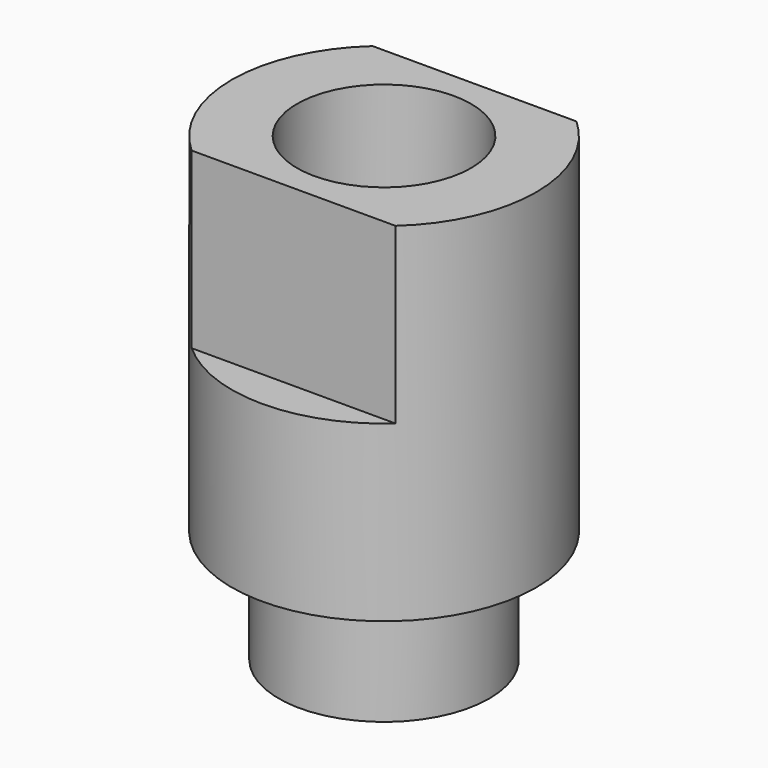
from build123d import *

# Parameters (mm, degrees)
F0_R     = 8.75
F0_R_2   = 6.05
F0_R_3   = 5
F1_DEPTH = 20
F0_R_4   = 3.75
F2_DEPTH = 10
F0_R_5   = 2.65
F3_DEPTH = 6.2
F5_DEPTH = 10
F6_DEPTH = 6.5


with BuildPart() as f1:
    # F0 (on Top) → F1 (new body)
    with BuildSketch(Plane.XY):
        Circle(F0_R)
        Circle(F0_R_2, mode=Mode.SUBTRACT)
        Circle(F0_R_2)
        Circle(F0_R_3, mode=Mode.SUBTRACT)
    extrude(amount=F1_DEPTH)

    # F4 (on face) → F5 (cut)
    with BuildSketch(Plane.XY.offset(20)):
        with BuildLine():
            ThreePointArc((-5.8576872569, -6.5), (0, -8.75), (5.8576872569, -6.5))
            Line((5.8576872569, -6.5), (-5.8576872569, -6.5))
        make_face()
        with BuildLine():
            Line((-5.8576872569, 6.5), (5.8576872569, 6.5))
            ThreePointArc((5.8576872569, 6.5), (0, 8.75), (-5.8576872569, 6.5))
        make_face()
    extrude(amount=-F5_DEPTH, mode=Mode.SUBTRACT)



with BuildPart() as f2:
    # F0 (on Top) → F2 (new body)
    with BuildSketch(Plane.XY):
        Circle(F0_R_3)
        Circle(F0_R_4, mode=Mode.SUBTRACT)
    extrude(amount=F2_DEPTH)

    # F0 (on Top) → F3 (join)
    with BuildSketch(Plane.XY):
        Circle(F0_R_4)
        Circle(F0_R_5, mode=Mode.SUBTRACT)
    extrude(amount=F3_DEPTH)


with BuildPart() as f1_1:
    add(f1.part)

    add(f2.part)  # F6 merges F2
    # F0 (on Top) → F6 (join)
    with BuildSketch(Plane.XY):
        Circle(F0_R_2)
        Circle(F0_R_3, mode=Mode.SUBTRACT)
        Circle(F0_R_3)
        Circle(F0_R_4, mode=Mode.SUBTRACT)
        Circle(F0_R_4)
        Circle(F0_R_5, mode=Mode.SUBTRACT)
    extrude(amount=-F6_DEPTH)


solid = f1_1.part
